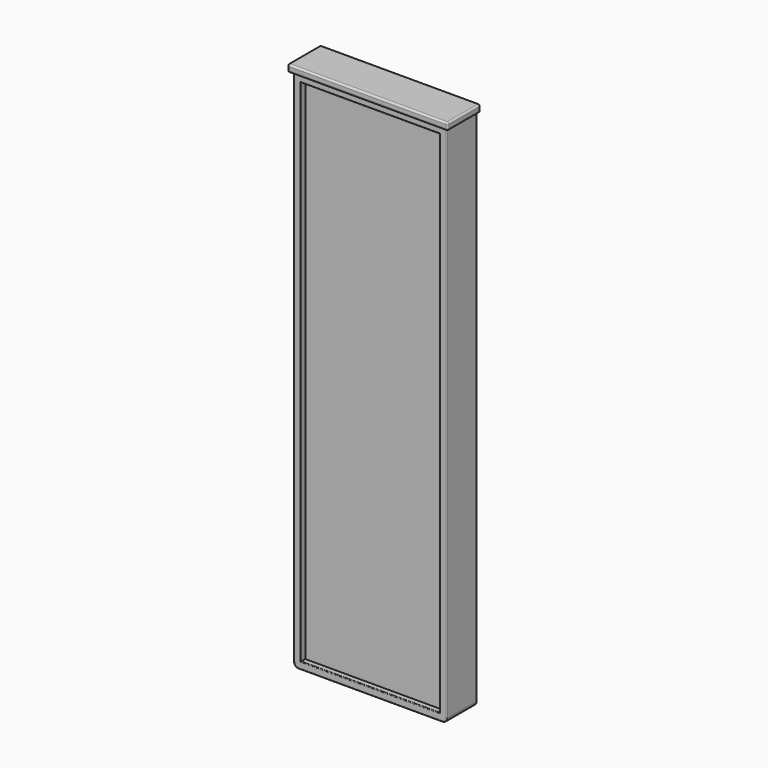
from build123d import *

# Parameters (mm, degrees)
F1_W      = 170
F1_H      = 582.11
F2_DEPTH  = 42
F3_W      = 154
F3_H      = 566.11
F4_DEPTH  = 6
F8_R      = 5
F9_R      = 0.8
F7_W      = 46
F7_H      = 8
F10_DEPTH = 178
F11_R     = 2
F15_DEPTH = 25
F17_DEPTH = 25


with BuildPart() as f2:
    # F1 (on Front) → F2 (new body)
    with BuildSketch(Plane.XZ):
        Rectangle(F1_W, F1_H)
    extrude(amount=F2_DEPTH)

    # F3 (on face) → F4 (cut)
    with BuildSketch(Plane.XZ.offset(42)):
        Rectangle(F3_W, F3_H)
    extrude(amount=-F4_DEPTH, mode=Mode.SUBTRACT)

    # F8
    f8_edges = [f2.edges().sort_by_distance(p)[0] for p in [
        (-85, -21, -291.055),
        (85, -21, -291.055),
    ]]
    fillet(f8_edges, radius=F8_R)

    # F9
    f9_edges = [f2.edges().sort_by_distance(p)[0] for p in [
        (-85, -42, 2.5),
        (-77, -42, 0),
        (77, -42, 0),
        (85, -42, 2.5),
        (0, -42, -283.055),
        (85, 0, 2.5),
        (-85, 0, 2.5),
        (0, -42, 283.055),
    ]]
    fillet(f9_edges, radius=F9_R)

    # F7 (on offset) → F10 (join, through all)
    with BuildSketch(Plane(origin=(-89, 0, 0), x_dir=(0, -1, 0), z_dir=(-1, 0, 0))):
        with Locations((23, 295.055)):
            Rectangle(F7_W, F7_H)
    extrude(amount=-F10_DEPTH)

    # F11
    f11_edges = [f2.edges().sort_by_distance(p)[0] for p in [
        (0, -46, 299.055),
        (0, 0, 299.055),
        (-89, -23, 299.055),
        (89, -23, 299.055),
        (-89, -46, 295.055),
        (89, -46, 295.055),
        (89, 0, 295.055),
        (-89, 0, 295.055),
        (-89, -23, 291.055),
        (0, -46, 291.055),
        (89, -23, 291.055),
    ]]
    fillet(f11_edges, radius=F11_R)

    # F14 (on offset) → F15 (join)
    with BuildSketch(Plane.XY.offset(100)):
        with BuildLine():
            Line((-32.25, 1.2), (-32.25, 0))
            Line((-32.25, 0), (-18.25, 0))
            Line((-18.25, 0), (-18.25, 18))
            ThreePointArc((-18.25, 18), (0, 36.25), (18.25, 18))
            Line((18.25, 18), (18.25, 0))
            Line((18.25, 0), (32.25, 0))
            Line((32.25, 0), (32.25, 1.2))
            Line((32.25, 1.2), (19.45, 1.2))
            Line((19.45, 1.2), (19.45, 18))
            ThreePointArc((19.45, 18), (0, 37.45), (-19.45, 18))
            Line((-19.45, 18), (-19.45, 1.2))
            Line((-19.45, 1.2), (-32.25, 1.2))
        make_face()
    extrude(amount=F15_DEPTH)

    # F16 (on offset) → F17 (join)
    with BuildSketch(Plane.XY.offset(-100)):
        with BuildLine():
            Line((32.25, 1.2), (19.45, 1.2))
            Line((19.45, 1.2), (19.45, 18))
            ThreePointArc((19.45, 18), (0, 37.45), (-19.45, 18))
            Line((-19.45, 18), (-19.45, 1.2))
            Line((-19.45, 1.2), (-32.25, 1.2))
            Line((-32.25, 1.2), (-32.25, 0))
            Line((-32.25, 0), (-18.25, 0))
            Line((-18.25, 0), (-18.25, 18))
            ThreePointArc((-18.25, 18), (0, 36.25), (18.25, 18))
            Line((18.25, 18), (18.25, 0))
            Line((18.25, 0), (32.25, 0))
            Line((32.25, 0), (32.25, 1.2))
        make_face()
    extrude(amount=F17_DEPTH)


solid = f2.part
